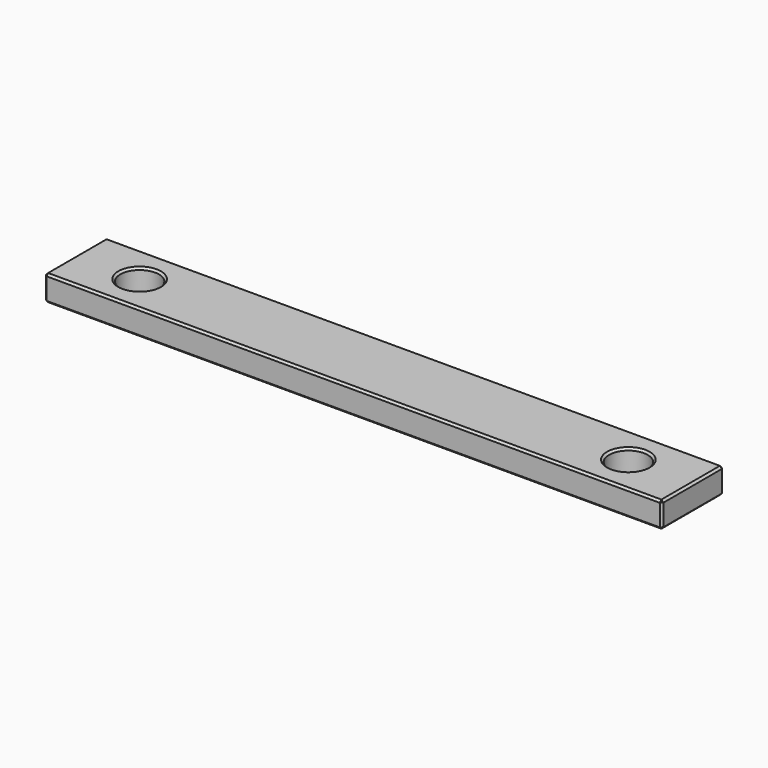
from build123d import *

# Parameters (mm, degrees)
F0_W     = 304.8
F0_H     = 38.1
F0_R     = 9.525
F1_DEPTH = 12.7
F2_SIZE  = 1.016


with BuildPart() as f1:
    # F0 (on Top) → F1 (new body)
    with BuildSketch(Plane.XY):
        Rectangle(F0_W, F0_H)
        with Locations((-120.65, 0)):
            Circle(F0_R, mode=Mode.SUBTRACT)
        with Locations((120.65, 0)):
            Circle(F0_R, mode=Mode.SUBTRACT)
    extrude(amount=F1_DEPTH)

    # F2
    f2_edges = [f1.edges().sort_by_distance(p)[0] for p in [
        (0, 19.05, 0),
        (-152.4, 0, 0),
        (0, -19.05, 0),
        (152.4, 0, 0),
        (-130.175, 0, 0),
        (111.125, 0, 0),
        (152.4, -19.05, 6.35),
        (152.4, 19.05, 6.35),
        (152.4, 0, 12.7),
        (0, 19.05, 12.7),
        (-152.4, 0, 12.7),
        (0, -19.05, 12.7),
        (-130.175, 0, 12.7),
        (111.125, 0, 12.7),
        (-152.4, 19.05, 6.35),
        (-152.4, -19.05, 6.35),
    ]]
    chamfer(f2_edges, length=F2_SIZE)


solid = f1.part
